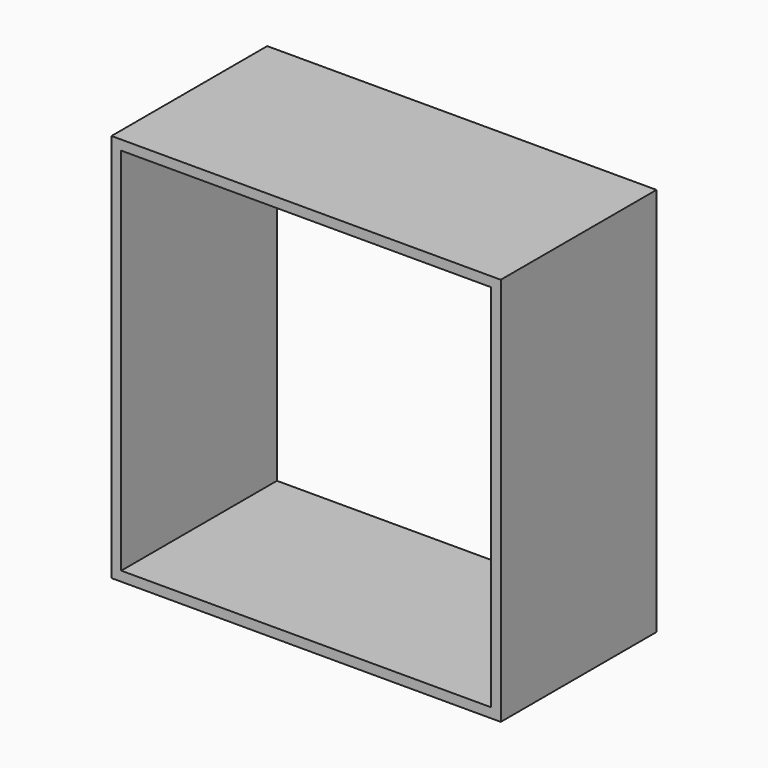
from build123d import *

# Parameters (mm, degrees)
F0_W     = 101.6
F0_H     = 101.6
F1_DEPTH = 50.8
F2_T     = -2.54


with BuildPart() as f1:
    # F0 (on Front) → F1 (new body)
    with BuildSketch(Plane.XZ):
        Rectangle(F0_W, F0_H)
    extrude(amount=F1_DEPTH)

    # F2
    f2_openings = [f1.faces().sort_by_distance(p)[0] for p in [
        (0, -50.8, 0),
        (0, 0, 0),
    ]]
    offset(amount=F2_T, openings=f2_openings)


solid = f1.part
